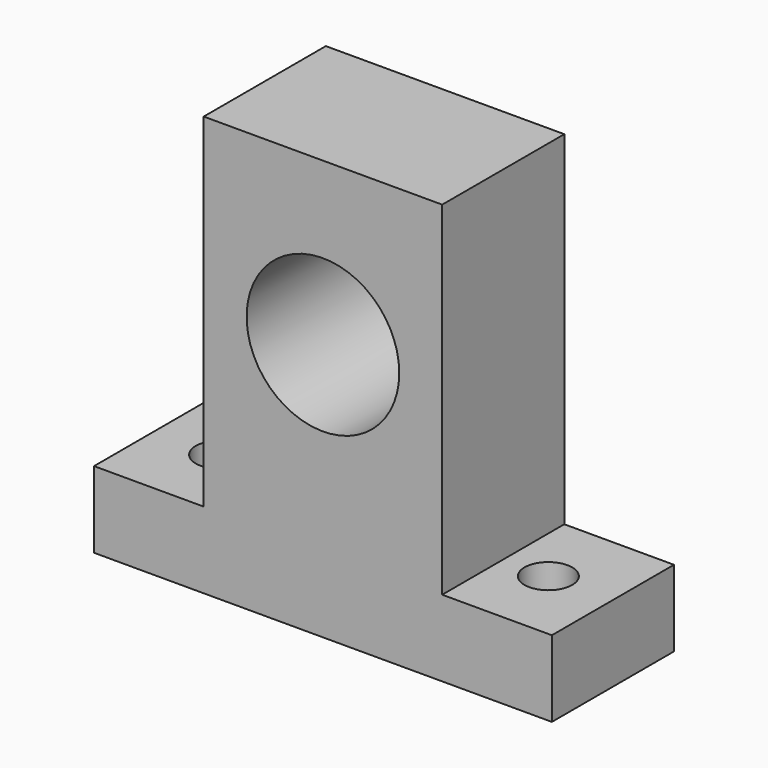
from build123d import *

# Parameters (mm, degrees)
F0_R          = 8
F1_DEPTH      = 8
F1_DEPTH_BACK = 8
F3_D          = 5


with BuildPart() as f1:
    # F0 (on Front) → F1 (new body, two sides)
    with BuildSketch(Plane.XZ) as f1_sk:
        Polygon((-24, 0), (0, 0), (24, 0), (24, 8), (12.5, 8), (12.5, 44), (0, 44), (-12.5, 44), (-12.5, 8), (-24, 8), align=None)
        with Locations((0, 27)):
            Circle(F0_R, mode=Mode.SUBTRACT)
    extrude(amount=-F1_DEPTH)
    extrude(f1_sk.sketch, amount=F1_DEPTH_BACK)

    # F3 (through all)
    with Locations(Plane.XY.offset(8)):
        with Locations((-17.2336879396, 0), (17.2336879396, 0)):
            Hole(F3_D / 2)


solid = f1.part
